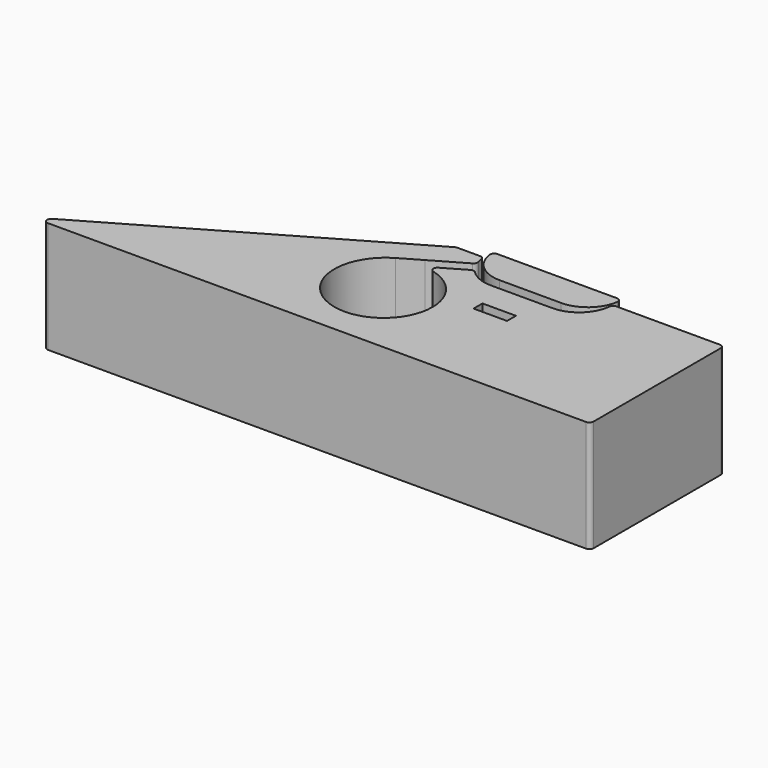
from build123d import *

# Parameters (mm, degrees)
F3_W      = 6
F3_H      = 2
F4_DEPTH  = 20
F5_DEPTH  = 7.25
F6_R      = 3.3
F6_R_2    = 1.6
F7_DEPTH  = 3
F8_DEPTH  = 23.5
F9_SIZE   = 0.5
F9_2_SIZE = 0.5


with BuildPart() as f4:
    # F3 (on Top) → F4 (new body)
    with BuildSketch(Plane.XY):
        with BuildLine():
            Line((51.7874861214, 29.8995190528), (2.4240381057, 1.3995190528))
            ThreePointArc((2.4240381057, 1.3995190528), (2.074593736, 0.5558857162), (2.7990381057, 0))
            Line((2.7990381057, 0), (99.25, 0))
            ThreePointArc((99.25, 0), (99.7803300859, 0.2196699141), (100, 0.75))
            Line((100, 0.75), (100, 29.25))
            ThreePointArc((100, 29.25), (99.7803300859, 29.7803300859), (99.25, 30))
            Line((99.25, 30), (80.7082039325, 30))
            ThreePointArc((80.7082039325, 30), (80.2082039325, 29.8090169944), (79.96284794, 29.3333333333))
            ThreePointArc((79.96284794, 29.3333333333), (78, 25.527864045), (74, 24))
            Line((74, 24), (62.9615242271, 24))
            ThreePointArc((62.9615242271, 24), (60.6666869252, 24.4561997008), (58.7208176535, 25.7554260807))
            ThreePointArc((58.7208176535, 25.7554260807), (58.2884545214, 25.9684602763), (57.8157293317, 25.8743733936))
            Line((57.8157293317, 25.8743733936), (53.8930627208, 23.6096207698))
            ThreePointArc((53.8930627208, 23.6096207698), (53.5253110496, 22.8560827046), (54.0859143365, 22.2325565527))
            ThreePointArc((54.0859143365, 22.2325565527), (60.64302811, 12.6769873321), (51.9615242271, 5))
            ThreePointArc((51.9615242271, 5), (43.0837022309, 11.8121924121), (47.3660254038, 22.1506350946))
            Line((47.3660254038, 22.1506350946), (50.9615242271, 24.2264973081))
            Line((50.9615242271, 24.2264973081), (56.8157293317, 27.6064242012))
            ThreePointArc((56.8157293317, 27.6064242012), (57.1335735571, 27.9687727831), (57.1652620979, 28.4497273369))
            ThreePointArc((57.1652620979, 28.4497273369), (57.0653935218, 28.8884053319), (56.9986762871, 29.3333333333))
            ThreePointArc((56.9986762871, 29.3333333333), (56.7533202946, 29.8090169944), (56.2533202946, 30))
            Line((56.2533202946, 30), (52.1624861214, 30))
            ThreePointArc((52.1624861214, 30), (51.9683718376, 29.9744443697), (51.7874861214, 29.8995190528))
        make_face()
        with Locations((68.4807621135, 18)):
            Rectangle(F3_W, F3_H, mode=Mode.SUBTRACT)
    extrude(amount=F4_DEPTH)

    # F3 (on Top) → F5 (join)
    with BuildSketch(Plane.XY):
        with Locations((68.4807621135, 18)):
            Rectangle(F3_W, F3_H)
    extrude(amount=F5_DEPTH)


with BuildPart() as f4b:
    # F3 (on Top) → F4, piece 2 (new body)
    with BuildSketch(Plane.XY):
        with BuildLine():
            ThreePointArc((57.0230643154, 31.1428571429), (59.0336022028, 27.4644263239), (62.9615242271, 26))
            Line((62.9615242271, 26), (74, 26))
            ThreePointArc((74, 26), (77.9279220242, 27.4644263239), (79.9384599117, 31.1428571429))
            ThreePointArc((79.9384599117, 31.1428571429), (79.7630991322, 31.740990253), (79.1961524227, 32))
            Line((79.1961524227, 32), (57.7653718044, 32))
            ThreePointArc((57.7653718044, 32), (57.1984250948, 31.740990253), (57.0230643154, 31.1428571429))
        make_face()
    extrude(amount=F4_DEPTH)

    # F6 (on face) → F7 (cut)
    with BuildSketch(Plane(origin=(0, 32, 0), x_dir=(-1, 0, 0), z_dir=(0, 1, 0))):
        with Locations((-68.4807621135, 10)):
            Circle(F6_R)
        with Locations((-68.4807621135, 10)):
            Circle(F6_R_2, mode=Mode.SUBTRACT)
    extrude(amount=-F7_DEPTH, mode=Mode.SUBTRACT)


with BuildPart() as f8_tool:
    # F6 (on face) → F8 (new body)
    with BuildSketch(Plane(origin=(0, 32, 0), x_dir=(-1, 0, 0), z_dir=(0, 1, 0))):
        with Locations((-68.4807621135, 10)):
            Circle(F6_R_2)
    extrude(amount=-F8_DEPTH)


with BuildPart() as f4_1:
    add(f4.part)

    # F8: cut by f8_tool
    add(f8_tool.part, mode=Mode.SUBTRACT)

    # F9#2
    f9_2_edges = [f4_1.edges().sort_by_distance(p)[0] for p in [
        (70.080762, 24, 10),
        (70.080762, 17, 10),
    ]]
    chamfer(f9_2_edges, length=F9_2_SIZE)


with BuildPart() as f4b_1:
    add(f4b.part)

    # F8: cut by f8_tool
    add(f8_tool.part, mode=Mode.SUBTRACT)

    # F9
    f9_edges = [f4b_1.edges().sort_by_distance(p)[0] for p in [
        (71.780762, 32, 10),
    ]]
    chamfer(f9_edges, length=F9_SIZE)


solid = Compound([f4_1.part, f4b_1.part])
